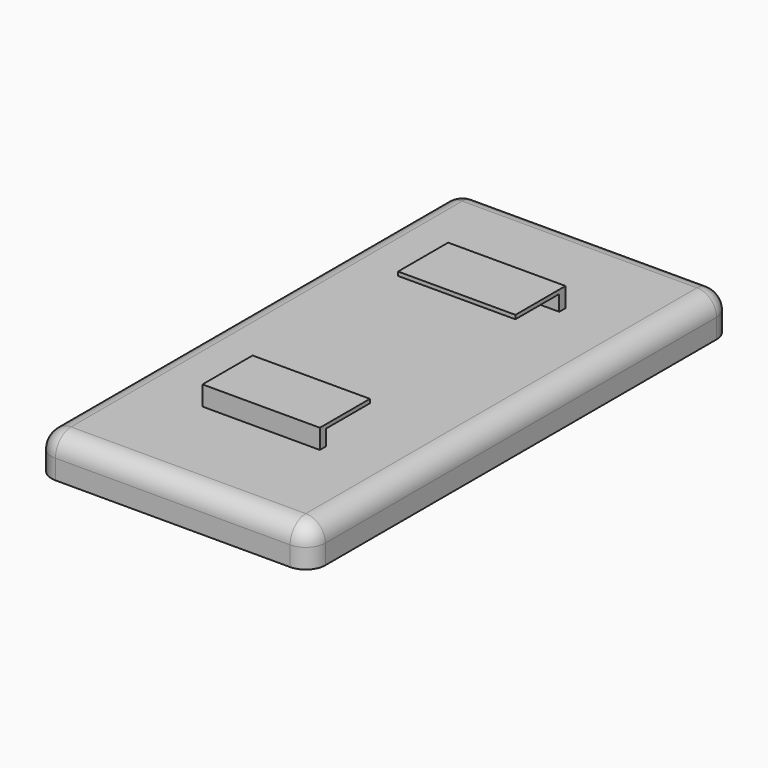
from build123d import *

# Parameters (mm, degrees)
F0_W      = 70
F0_H      = 135
F1_DEPTH  = 10
F2_T      = -2.5
F3_R      = 5
F4_R      = 5
F5_R      = 5
F6_R      = 5
F7_W      = 1
F7_H      = 4
F8_DEPTH  = 1
F9_W      = 30
F9_H      = 2
F9_W_2    = 15
F10_DEPTH = 4
F12_W     = 30
F12_H     = 14
F12_H_2   = 2
F13_DEPTH = 1
F11_W     = 30
F11_H     = 2
F11_H_2   = 14
F14_DEPTH = 1


with BuildPart() as f1:
    # F0 (on Top) → F1 (new body)
    with BuildSketch(Plane.XY):
        Rectangle(F0_W, F0_H)
    extrude(amount=F1_DEPTH)

    # F2
    f2_openings = [f1.faces().sort_by_distance(p)[0] for p in [
        (0, 0, 0),
    ]]
    offset(amount=F2_T, openings=f2_openings)

    # F3
    f3_edges = [f1.edges().sort_by_distance(p)[0] for p in [
        (0, 67.5, 10),
        (35, 0, 10),
        (35, 67.5, 5),
    ]]
    fillet(f3_edges, radius=F3_R)

    # F4
    f4_edges = [f1.edges().sort_by_distance(p)[0] for p in [
        (33.535534, -67.5, 8.535534),
        (-2.5, -67.5, 10),
    ]]
    fillet(f4_edges, radius=F4_R)

    # F5
    f5_edges = [f1.edges().sort_by_distance(p)[0] for p in [
        (-35, 0, 10),
        (-35, -66.035534, 8.535534),
    ]]
    fillet(f5_edges, radius=F5_R)

    # F6
    f6_edges = [f1.edges().sort_by_distance(p)[0] for p in [
        (32.5, 65, 3.75),
        (-32.5, 65, 3.75),
        (32.5, -65, 3.75),
        (-32.5, -65, 3.75),
    ]]
    fillet(f6_edges, radius=F6_R)

    # F7 (on face) → F8 (cut)
    with BuildSketch(Plane(origin=(0, 0, 0), x_dir=(1, 0, 0), z_dir=(0, 0, -1))):
        with Locations((-33.75, 0)):
            Rectangle(F7_W, F7_H)
        with Locations((33.75, 0)):
            Rectangle(F7_W, F7_H)
    extrude(amount=-F8_DEPTH, mode=Mode.SUBTRACT)

    # F9 (on face) → F10 (join)
    with BuildSketch(Plane.XY.offset(10)):
        with Locations((0, 38.25)):
            Rectangle(F9_W, F9_H)
        with Locations((-7.5, -38.25)):
            Rectangle(F9_W_2, F9_H)
        with Locations((7.5, -38.25)):
            Rectangle(F9_W_2, F9_H)
    extrude(amount=F10_DEPTH)

    # F12 (on face) → F13 (join)
    with BuildSketch(Plane.XY.offset(14)):
        with Locations((0, -30.25)):
            Rectangle(F12_W, F12_H)
        with Locations((0, -38.25)):
            Rectangle(F12_W, F12_H_2)
    extrude(amount=F13_DEPTH)

    # F11 (on face) → F14 (join)
    with BuildSketch(Plane.XY.offset(14)):
        with Locations((0, 38.25)):
            Rectangle(F11_W, F11_H)
        with Locations((0, 30.25)):
            Rectangle(F11_W, F11_H_2)
    extrude(amount=F14_DEPTH)


solid = f1.part
